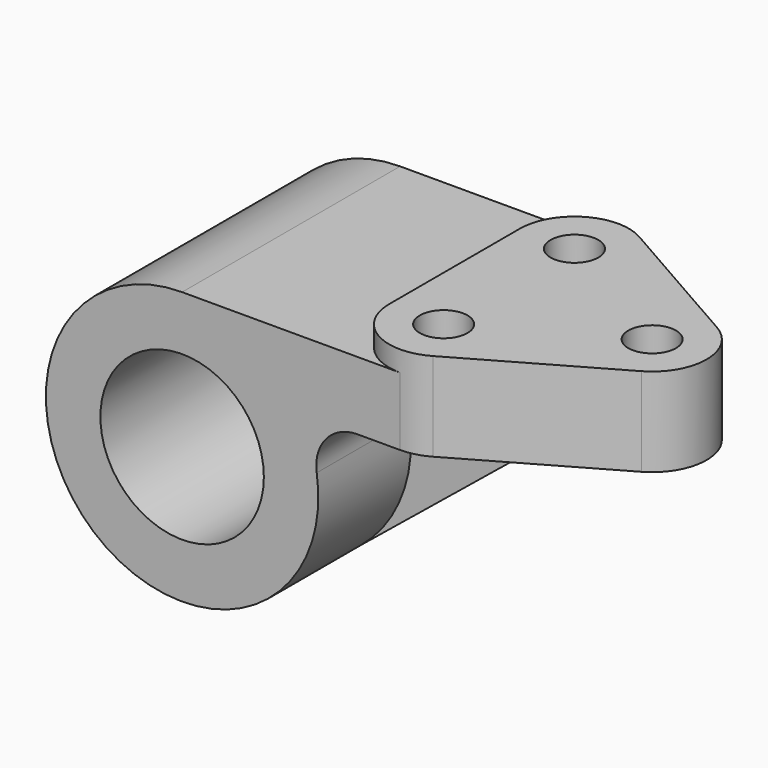
from build123d import *

# Parameters (mm, degrees)
F0_R     = 19.05
F1_DEPTH = 31.75
F2_R     = 5.5626
F3_DEPTH = 20.6502
F4_R     = 9.525
F6_DEPTH = 4.7625
F7_R     = 5.5626
F8_DEPTH = 68.2762


with BuildPart() as f1:
    # F0 (on Front) → F1 (new body, symmetric)
    with BuildSketch(Plane.XZ):
        with BuildLine():
            ThreePointArc((0, 31.75), (-22.4506403027, -22.4506403027), (31.75, 0))
            ThreePointArc((31.75, 0), (30.6681449847, 8.217504682), (27.4963065702, 15.875))
            ThreePointArc((27.4963065702, 15.875), (15.875, 27.4963065702), (0, 31.75))
        make_face()
        Circle(F0_R, mode=Mode.SUBTRACT)
        with BuildLine():
            ThreePointArc((0, 31.75), (15.875, 27.4963065702), (27.4963065702, 15.875))
            Line((27.4963065702, 15.875), (50.8, 15.875))
            Line((50.8, 15.875), (50.8, 31.75))
            Line((50.8, 31.75), (0, 31.75))
        make_face()
    extrude(amount=F1_DEPTH, both=True)

    # F2 (on face) → F3 (join)
    with BuildSketch(Plane(origin=(0, 0, 15.875), x_dir=(1, 0, 0), z_dir=(0, 0, -1))):
        with BuildLine():
            Line((90.4493554441, 11.0277214642), (57.0991554441, 30.0777214642))
            ThreePointArc((57.0991554441, 30.0777214642), (44.4246284085, 30.0338352623), (38.1, 19.05))
            Line((38.1, 19.05), (38.1, -19.05))
            ThreePointArc((38.1, -19.05), (44.4246284085, -30.0338352623), (57.0991554441, -30.0777214642))
            Line((57.0991554441, -30.0777214642), (90.4493554441, -11.0277214642))
            ThreePointArc((90.4493554441, -11.0277214642), (96.8502, 0), (90.4493554441, 11.0277214642))
        make_face()
        with Locations((50.8, -19.05)):
            Circle(F2_R, mode=Mode.SUBTRACT)
        with Locations((84.1502, 0)):
            Circle(F2_R, mode=Mode.SUBTRACT)
        with Locations((50.8, 19.05)):
            Circle(F2_R, mode=Mode.SUBTRACT)
    extrude(amount=-F3_DEPTH)

    # F4
    f4_edges = [f1.edges().sort_by_distance(p)[0] for p in [
        (27.496307, 0, 15.875),
    ]]
    fillet(f4_edges, radius=F4_R)

    # F5 (on Front) → F6 (join, symmetric)
    with BuildSketch(Plane.XZ):
        with BuildLine():
            Line((20.0304912791, -24.6341616281), (69.85, 15.875))
            Line((69.85, 15.875), (57.0991554441, 15.875))
            Line((57.0991554441, 15.875), (50.8, 15.875))
            Line((50.8, 15.875), (40.7836134373, 15.875))
            ThreePointArc((40.7836134373, 15.875), (33.5488565837, 12.545475629), (31.3720103364, 4.8846153846))
            ThreePointArc((31.3720103364, 4.8846153846), (29.6377097996, -11.3872146654), (20.0304912791, -24.6341616281))
        make_face()
    extrude(amount=F6_DEPTH, both=True)

    # F7 (on face) → F8 (cut, through all)
    with BuildSketch(Plane.XY.offset(36.5252)):
        with Locations((50.8, 19.05)):
            Circle(F7_R)
        with Locations((50.8, -19.05)):
            Circle(F7_R)
    extrude(amount=-F8_DEPTH, mode=Mode.SUBTRACT)


solid = f1.part
